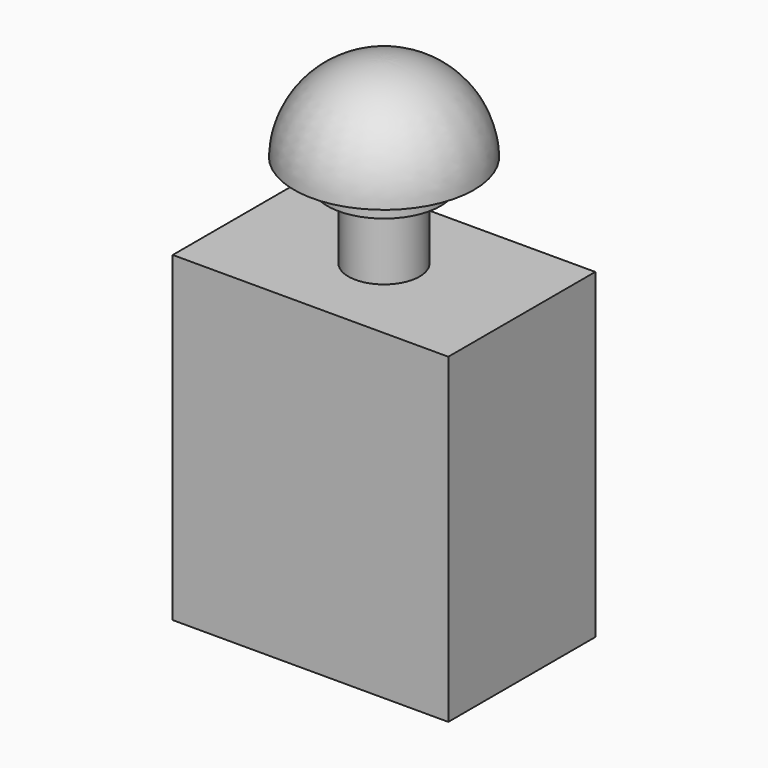
from build123d import *

# Parameters (mm, degrees)
F0_W     = 60
F0_H     = 40
F1_DEPTH = 70
F2_R     = 7.749318
F3_DEPTH = 15
F4_R     = 12.316216
F5_DEPTH = 15
F6_W     = 4.257482
F6_H     = 2.289564
F7_DEPTH = 5


with BuildPart() as f1:
    # F0 (on Top) → F1 (new body)
    with BuildSketch(Plane.XY):
        with Locations((-16.059712, 9.84915)):
            Rectangle(F0_W, F0_H)
    extrude(amount=F1_DEPTH)

    # F2 (on face) → F3 (join)
    with BuildSketch(Plane.XY.offset(70)):
        with Locations((-16.059712, 9.84915)):
            Circle(F2_R)
    extrude(amount=F3_DEPTH)

    # F4 (on face) → F5 (join)
    with BuildSketch(Plane.XY.offset(85)):
        with Locations((-16.059712, 9.84915)):
            Circle(F4_R)
    extrude(amount=F5_DEPTH)

    # F6 (on face) → F7 (join)
    with BuildSketch(Plane.XY.offset(100)):
        with Locations((-13.930971, 8.704368)):
            Rectangle(F6_W, F6_H)
    extrude(amount=F7_DEPTH)

    # F8 (on face) → F9 (revolve)
    with BuildSketch(Plane(origin=(0, 9.84915, 0), x_dir=(-1, 0, 0), z_dir=(0, 1, 0))):
        with BuildLine():
            Line((16.059712, 90.969634), (16.059712, 100))
            Line((16.059712, 100), (11.80223, 100))
            Line((11.80223, 100), (11.80223, 105))
            Line((11.80223, 105), (16.059712, 105))
            Line((16.059712, 105), (16.059712, 109.030366))
            ThreePointArc((16.059712, 109.030366), (2.458365, 103.762126), (-3.528251, 90.461321))
            Line((-3.528251, 90.461321), (16.059712, 90.969634))
        make_face()
    revolve(axis=Axis((-16.059712, 9.84915, 95.484817), (0, 0, -1)))


solid = f1.part
